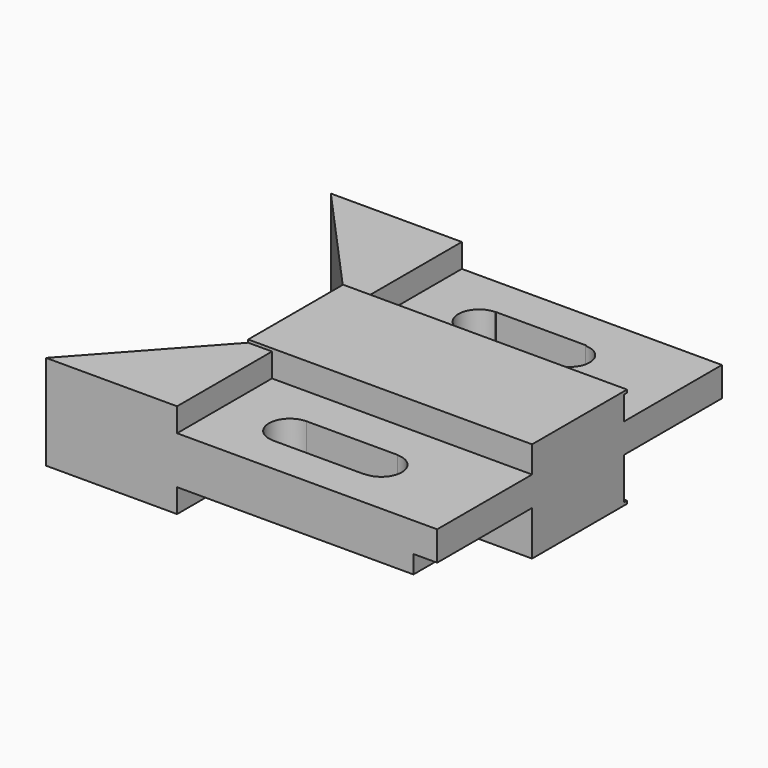
from build123d import *

# Parameters (mm, degrees)
F0_W      = 75.9690925479
F0_H      = 26.924
F1_DEPTH  = 31.75
F2_W      = 31.75
F2_H      = 25.4
F3_DEPTH  = 104.648
F4_W      = 69.596
F4_H      = 6.35
F5_DEPTH  = 32.766
F6_W      = 6.35
F6_H      = 4.826
F7_DEPTH  = 31.75
F8_DEPTH  = 31.75
F9_DEPTH  = 32.004
F10_DEPTH = 32.766
F11_DEPTH = 32.766
F12_W     = 69.596
F12_H     = 6.35
F13_DEPTH = 31.75
F14_W     = 6.35
F14_H     = 4.826
F15_DEPTH = 31.75
F17_DEPTH = 19.813
F19_DEPTH = 19.813
F21_DEPTH = 26.163
F23_DEPTH = 26.163


with BuildPart() as f1:
    # F0 (on Front) → F1 (new body)
    with BuildSketch(Plane.XZ):
        with Locations((-37.9845462739, 13.462)):
            Rectangle(F0_W, F0_H)
    extrude(amount=F1_DEPTH)

    # F2 (on face) → F3 (join)
    with BuildSketch(Plane.YZ):
        with Locations((-47.625, 13.462)):
            Rectangle(F2_W, F2_H)
        with Locations((15.875, 13.462)):
            Rectangle(F2_W, F2_H)
    extrude(amount=-F3_DEPTH)

    # F4 (on face) → F5 (cut)
    with BuildSketch(Plane(origin=(0, 31.75, 0), x_dir=(-1, 0, 0), z_dir=(0, 1, 0))):
        with Locations((34.798, 22.987)):
            Rectangle(F4_W, F4_H)
        with Locations((34.798, 3.937)):
            Rectangle(F4_W, F4_H)
    extrude(amount=-F5_DEPTH, mode=Mode.SUBTRACT)

    # F6 (on face) → F7 (join)
    with BuildSketch(Plane(origin=(0, 31.75, 0), x_dir=(-1, 0, 0), z_dir=(0, 1, 0))):
        with Locations((3.175, 9.525)):
            Rectangle(F6_W, F6_H)
    extrude(amount=-F7_DEPTH)

    # F6 (on face) → F8 (join)
    with BuildSketch(Plane(origin=(0, 31.75, 0), x_dir=(-1, 0, 0), z_dir=(0, 1, 0))):
        with Locations((3.175, 9.525)):
            Rectangle(F6_W, F6_H)
    extrude(amount=-F8_DEPTH)

    # F6 (on face) → F9 (cut)
    with BuildSketch(Plane(origin=(0, 31.75, 0), x_dir=(-1, 0, 0), z_dir=(0, 1, 0))):
        with Locations((3.175, 9.525)):
            Rectangle(F6_W, F6_H)
    extrude(amount=-F9_DEPTH, mode=Mode.SUBTRACT)

    # F6 (on face) → F10 (join)
    with BuildSketch(Plane(origin=(0, 31.75, 0), x_dir=(-1, 0, 0), z_dir=(0, 1, 0))):
        with Locations((3.175, 9.525)):
            Rectangle(F6_W, F6_H)
    extrude(amount=-F10_DEPTH)

    # F6 (on face) → F11 (cut)
    with BuildSketch(Plane(origin=(0, 31.75, 0), x_dir=(-1, 0, 0), z_dir=(0, 1, 0))):
        with Locations((3.175, 9.525)):
            Rectangle(F6_W, F6_H)
    extrude(amount=-F11_DEPTH, mode=Mode.SUBTRACT)

    # F12 (on face) → F13 (cut)
    with BuildSketch(Plane.XZ.offset(63.5)):
        with Locations((-34.798, 3.937)):
            Rectangle(F12_W, F12_H)
        with Locations((-34.798, 22.987)):
            Rectangle(F12_W, F12_H)
    extrude(amount=-F13_DEPTH, mode=Mode.SUBTRACT)

    # F14 (on face) → F15 (cut)
    with BuildSketch(Plane.XZ.offset(63.5)):
        with Locations((-3.175, 9.525)):
            Rectangle(F14_W, F14_H)
    extrude(amount=-F15_DEPTH, mode=Mode.SUBTRACT)

    # F16 (on face) → F17 (cut, through all)
    with BuildSketch(Plane.XY.offset(19.812)):
        with BuildLine():
            Line((-51.8621839583, 20.9041976536), (-51.8621839583, 9.8067118621))
            ThreePointArc((-51.8621839583, 9.8067118621), (-47.9386302296, 11.4319010292), (-46.3134410625, 15.3554547578))
            ThreePointArc((-46.3134410625, 15.3554547578), (-47.9386302296, 19.2790084865), (-51.8621839583, 20.9041976536))
        make_face()
        with BuildLine():
            ThreePointArc((-51.8621839583, 20.9041976536), (-57.410926854, 15.3554547578), (-51.8621839583, 9.8067118621))
            Line((-51.8621839583, 9.8067118621), (-51.8621839583, 20.9041976536))
        make_face()
        with BuildLine():
            Line((-51.8621839583, 9.7674547578), (-27.6167299598, 9.7674547578))
            Line((-27.6167299598, 9.7674547578), (-27.6167299598, 10.0103156582))
            ThreePointArc((-27.6167299598, 10.0103156582), (-32.9618690595, 15.3554547578), (-27.6167299598, 20.7005938574))
            Line((-27.6167299598, 20.7005938574), (-27.6167299598, 20.9434547578))
            Line((-27.6167299598, 20.9434547578), (-51.8621839583, 20.9434547578))
            Line((-51.8621839583, 20.9434547578), (-51.8621839583, 20.9041976536))
            ThreePointArc((-51.8621839583, 20.9041976536), (-47.9386302296, 19.2790084865), (-46.3134410625, 15.3554547578))
            ThreePointArc((-46.3134410625, 15.3554547578), (-47.9386302296, 11.4319010292), (-51.8621839583, 9.8067118621))
            Line((-51.8621839583, 9.8067118621), (-51.8621839583, 9.7674547578))
        make_face()
        with BuildLine():
            ThreePointArc((-27.6167299598, 20.7005938574), (-32.9618690595, 15.3554547578), (-27.6167299598, 10.0103156582))
            Line((-27.6167299598, 10.0103156582), (-27.6167299598, 20.7005938574))
        make_face()
        with BuildLine():
            Line((-27.6167299598, 20.7005938574), (-27.6167299598, 10.0103156582))
            ThreePointArc((-27.6167299598, 10.0103156582), (-23.8371458561, 11.5758706541), (-22.2715908602, 15.3554547578))
            ThreePointArc((-22.2715908602, 15.3554547578), (-23.8371458561, 19.1350388615), (-27.6167299598, 20.7005938574))
        make_face()
    extrude(amount=-F17_DEPTH, mode=Mode.SUBTRACT)

    # F18 (on face) → F19 (cut, through all)
    with BuildSketch(Plane.XY.offset(19.812)):
        with BuildLine():
            Line((-51.8621839583, -53.5478262464), (-27.3858178407, -53.5478262464))
            Line((-27.3858178407, -53.5478262464), (-27.3858178407, -53.4538679724))
            ThreePointArc((-27.3858178407, -53.4538679724), (-32.8798595667, -47.9598262464), (-27.3858178407, -42.4657845204))
            Line((-27.3858178407, -42.4657845204), (-27.3858178407, -42.3718262464))
            Line((-27.3858178407, -42.3718262464), (-51.8621839583, -42.3718262464))
            Line((-51.8621839583, -42.3718262464), (-51.8621839583, -42.3927269235))
            ThreePointArc((-51.8621839583, -42.3927269235), (-47.9256502755, -44.0232925636), (-46.2950846354, -47.9598262464))
            ThreePointArc((-46.2950846354, -47.9598262464), (-47.9256502755, -51.8963599291), (-51.8621839583, -53.5269255693))
            Line((-51.8621839583, -53.5269255693), (-51.8621839583, -53.5478262464))
        make_face()
        with BuildLine():
            ThreePointArc((-27.3858178407, -42.4657845204), (-32.8798595667, -47.9598262464), (-27.3858178407, -53.4538679724))
            Line((-27.3858178407, -53.4538679724), (-27.3858178407, -42.4657845204))
        make_face()
        with BuildLine():
            Line((-27.3858178407, -42.4657845204), (-27.3858178407, -53.4538679724))
            ThreePointArc((-27.3858178407, -53.4538679724), (-23.5009436801, -51.844700407), (-21.8917761147, -47.9598262464))
            ThreePointArc((-21.8917761147, -47.9598262464), (-23.5009436801, -44.0749520858), (-27.3858178407, -42.4657845204))
        make_face()
        with BuildLine():
            ThreePointArc((-51.8621839583, -42.3927269235), (-57.4292832812, -47.9598262464), (-51.8621839583, -53.5269255693))
            Line((-51.8621839583, -53.5269255693), (-51.8621839583, -42.3927269235))
        make_face()
        with BuildLine():
            Line((-51.8621839583, -42.3927269235), (-51.8621839583, -53.5269255693))
            ThreePointArc((-51.8621839583, -53.5269255693), (-47.9256502755, -51.8963599291), (-46.2950846354, -47.9598262464))
            ThreePointArc((-46.2950846354, -47.9598262464), (-47.9256502755, -44.0232925636), (-51.8621839583, -42.3927269235))
        make_face()
    extrude(amount=-F19_DEPTH, mode=Mode.SUBTRACT)

    # F20 (on face) → F21 (cut, through all)
    with BuildSketch(Plane.XY.offset(26.162)):
        Polygon((-104.648, -31.75), (-104.648, -63.5), (-75.9690925479, -31.75), align=None)
    extrude(amount=-F21_DEPTH, mode=Mode.SUBTRACT)

    # F22 (on face) → F23 (cut, through all)
    with BuildSketch(Plane.XY.offset(26.162)):
        Polygon((-104.648, 0), (-75.9690925479, 0), (-104.648, 31.75), align=None)
    extrude(amount=-F23_DEPTH, mode=Mode.SUBTRACT)


solid = f1.part
